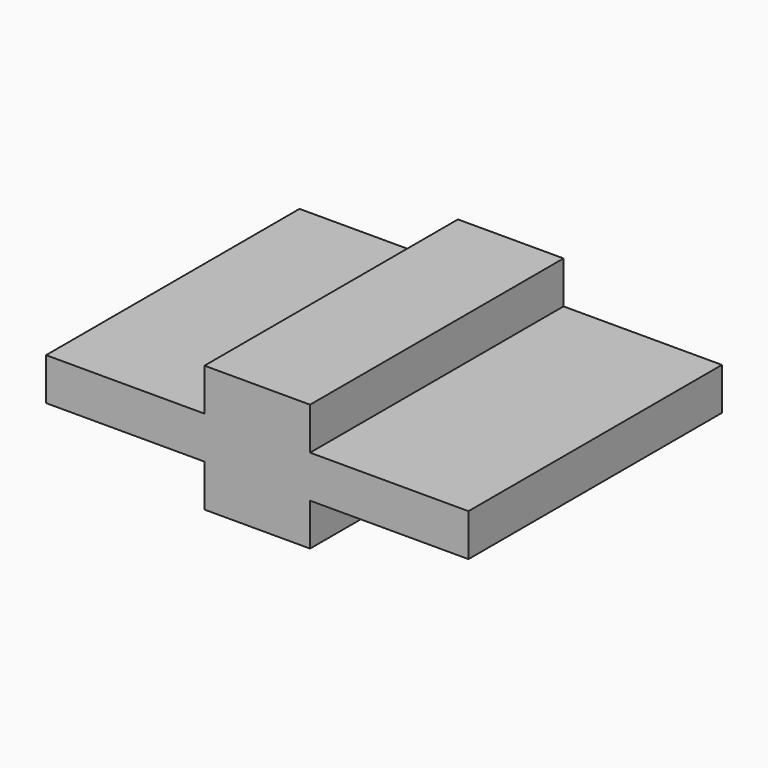
from build123d import *

# Parameters (mm, degrees)
SKETCH_W     = 100
SKETCH_H     = 75
PAD_DEPTH    = 10
SKETCH001_W  = 25
SKETCH001_H  = 75
PAD001_DEPTH = 10
SKETCH002_W  = 25
SKETCH002_H  = 75
PAD002_DEPTH = 10


with BuildPart() as part:
    # Sketch → Pad (new body)
    with BuildSketch(Plane.XY):
        with Locations((50, 37.5)):
            Rectangle(SKETCH_W, SKETCH_H)
    extrude(amount=PAD_DEPTH)

    # Sketch001 → Pad001 (new body)
    with BuildSketch(Plane.XY.offset(10)):
        with Locations((50, 37.5)):
            Rectangle(SKETCH001_W, SKETCH001_H)
    extrude(amount=PAD001_DEPTH)

    # Sketch002 → Pad002 (new body)
    with BuildSketch(Plane(origin=(0, 0, 0), x_dir=(1, 0, 0), z_dir=(0, 0, -1))):
        with Locations((50, -37.5)):
            Rectangle(SKETCH002_W, SKETCH002_H)
    extrude(amount=PAD002_DEPTH)


solid = part.part
